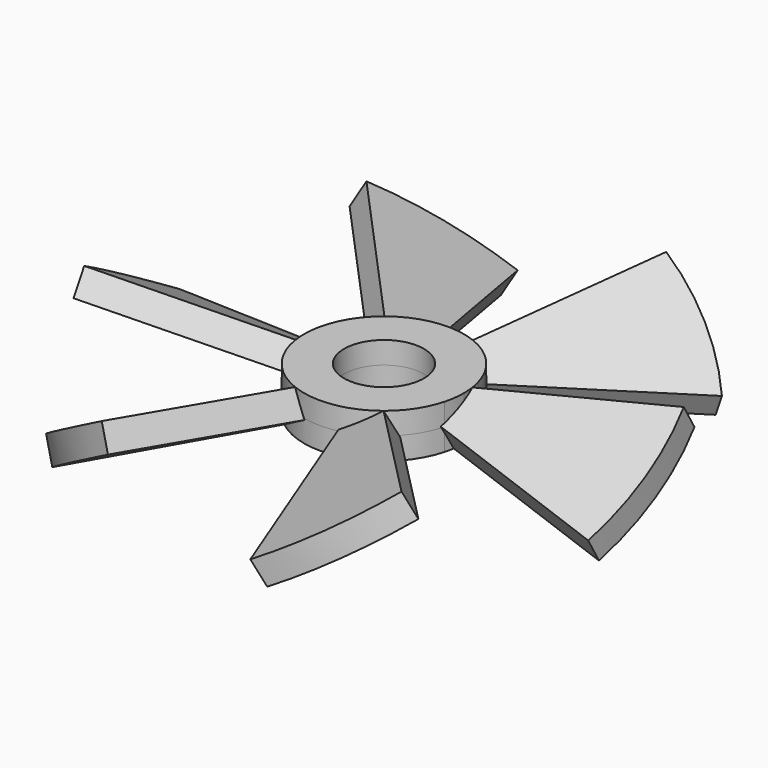
from build123d import *

# Parameters (mm, degrees)
F1_DEPTH      = 5
F1_DEPTH_BACK = 5
F2_ANGLE      = 30
F3_DEPTH      = 25
F3_DEPTH_BACK = 25
F5_COUNT      = 6
F6_DEPTH      = 8.3061645655
F6_DEPTH_BACK = 8.3061645655


with BuildPart() as f1:
    # F0 (on Top) → F1 (new body, two sides)
    with BuildSketch(Plane.XY) as f1_sk:
        with BuildLine():
            ThreePointArc((28.9777747887, 7.7645713531), (29.7433458412, 3.9157857666), (30, 0))
            ThreePointArc((30, 0), (29.7433458412, -3.9157857666), (28.9777747887, -7.7645713531))
            Line((28.9777747887, -7.7645713531), (96.5925826289, -25.8819045103))
            ThreePointArc((96.5925826289, -25.8819045103), (99.1444861374, -13.052619222), (100, 0))
            ThreePointArc((100, 0), (99.1444861374, 13.052619222), (96.5925826289, 25.8819045103))
            Line((96.5925826289, 25.8819045103), (28.9777747887, 7.7645713531))
        make_face()
        with BuildLine():
            ThreePointArc((28.9777747887, -7.7645713531), (29.7433458412, -3.9157857666), (30, 0))
            ThreePointArc((30, 0), (29.7433458412, 3.9157857666), (28.9777747887, 7.7645713531))
            Line((28.9777747887, 7.7645713531), (14.4888873943, 3.8822856765))
            ThreePointArc((14.4888873943, 3.8822856765), (14.8716729206, 1.9578928833), (15, 0))
            ThreePointArc((15, 0), (14.8716729206, -1.9578928833), (14.4888873943, -3.8822856765))
            Line((14.4888873943, -3.8822856765), (28.9777747887, -7.7645713531))
        make_face()
    extrude(amount=F1_DEPTH)
    extrude(f1_sk.sketch, amount=-F1_DEPTH_BACK)


with BuildPart() as f1_1:
    # F2: moved
    add(f1.part.rotate(Axis((7.5, 0, 0), (1, 0, 0)), F2_ANGLE))

    # F0 (on Top) → F3 (cut, two sides)
    with BuildSketch(Plane.XY) as f3_sk:
        with BuildLine():
            Line((14.4888873943, 3.8822856765), (28.9777747887, 7.7645713531))
            ThreePointArc((28.9777747887, 7.7645713531), (-30, 0), (28.9777747887, -7.7645713531))
            Line((28.9777747887, -7.7645713531), (14.4888873943, -3.8822856765))
            ThreePointArc((14.4888873943, -3.8822856765), (-15, 0), (14.4888873943, 3.8822856765))
        make_face()
        with BuildLine():
            Line((0, 0), (14.4888873943, 3.8822856765))
            ThreePointArc((14.4888873943, 3.8822856765), (-15, 0), (14.4888873943, -3.8822856765))
            Line((14.4888873943, -3.8822856765), (0, 0))
        make_face()
        with BuildLine():
            Line((0, 0), (14.4888873943, -3.8822856765))
            ThreePointArc((14.4888873943, -3.8822856765), (14.8716729206, -1.9578928833), (15, 0))
            Line((15, 0), (0, 0))
        make_face()
        with BuildLine():
            ThreePointArc((15, 0), (14.8716729206, 1.9578928833), (14.4888873943, 3.8822856765))
            Line((14.4888873943, 3.8822856765), (0, 0))
            Line((0, 0), (15, 0))
        make_face()
        with BuildLine():
            ThreePointArc((28.9777747887, -7.7645713531), (29.7433458412, -3.9157857666), (30, 0))
            ThreePointArc((30, 0), (29.7433458412, 3.9157857666), (28.9777747887, 7.7645713531))
            Line((28.9777747887, 7.7645713531), (14.4888873943, 3.8822856765))
            ThreePointArc((14.4888873943, 3.8822856765), (14.8716729206, 1.9578928833), (15, 0))
            ThreePointArc((15, 0), (14.8716729206, -1.9578928833), (14.4888873943, -3.8822856765))
            Line((14.4888873943, -3.8822856765), (28.9777747887, -7.7645713531))
        make_face()
    extrude(amount=-F3_DEPTH, mode=Mode.SUBTRACT)
    extrude(f3_sk.sketch, amount=F3_DEPTH_BACK, mode=Mode.SUBTRACT)


with BuildPart() as f5_1:
    # F5: instance of F1
    add(f1_1.part.rotate(Axis((0, 0, 22.1990030259), (0, 0, 1)), 1 * 360 / F5_COUNT))


with BuildPart() as f5_2:
    # F5: instance of F1
    add(f1_1.part.rotate(Axis((0, 0, 22.1990030259), (0, 0, 1)), 2 * 360 / F5_COUNT))


with BuildPart() as f5_3:
    # F5: instance of F1
    add(f1_1.part.rotate(Axis((0, 0, 22.1990030259), (0, 0, 1)), 3 * 360 / F5_COUNT))


with BuildPart() as f5_4:
    # F5: instance of F1
    add(f1_1.part.rotate(Axis((0, 0, 22.1990030259), (0, 0, 1)), 4 * 360 / F5_COUNT))


with BuildPart() as f5_5:
    # F5: instance of F1
    add(f1_1.part.rotate(Axis((0, 0, 22.1990030259), (0, 0, 1)), 5 * 360 / F5_COUNT))


with BuildPart() as f1_2:
    add(f1_1.part)

    add(f5_1.part)  # F6 merges F5_1

    add(f5_2.part)  # F6 merges F5_2

    add(f5_3.part)  # F6 merges F5_3

    add(f5_4.part)  # F6 merges F5_4

    add(f5_5.part)  # F6 merges F5_5
    # F0 (on Top) → F6 (join, two sides)
    with BuildSketch(Plane.XY) as f6_sk:
        with BuildLine():
            Line((14.4888873943, 3.8822856765), (28.9777747887, 7.7645713531))
            ThreePointArc((28.9777747887, 7.7645713531), (-30, 0), (28.9777747887, -7.7645713531))
            Line((28.9777747887, -7.7645713531), (14.4888873943, -3.8822856765))
            ThreePointArc((14.4888873943, -3.8822856765), (-15, 0), (14.4888873943, 3.8822856765))
        make_face()
        with BuildLine():
            ThreePointArc((28.9777747887, -7.7645713531), (29.7433458412, -3.9157857666), (30, 0))
            ThreePointArc((30, 0), (29.7433458412, 3.9157857666), (28.9777747887, 7.7645713531))
            Line((28.9777747887, 7.7645713531), (14.4888873943, 3.8822856765))
            ThreePointArc((14.4888873943, 3.8822856765), (14.8716729206, 1.9578928833), (15, 0))
            ThreePointArc((15, 0), (14.8716729206, -1.9578928833), (14.4888873943, -3.8822856765))
            Line((14.4888873943, -3.8822856765), (28.9777747887, -7.7645713531))
        make_face()
    extrude(amount=F6_DEPTH)
    extrude(f6_sk.sketch, amount=-F6_DEPTH_BACK)


solid = f1_2.part
